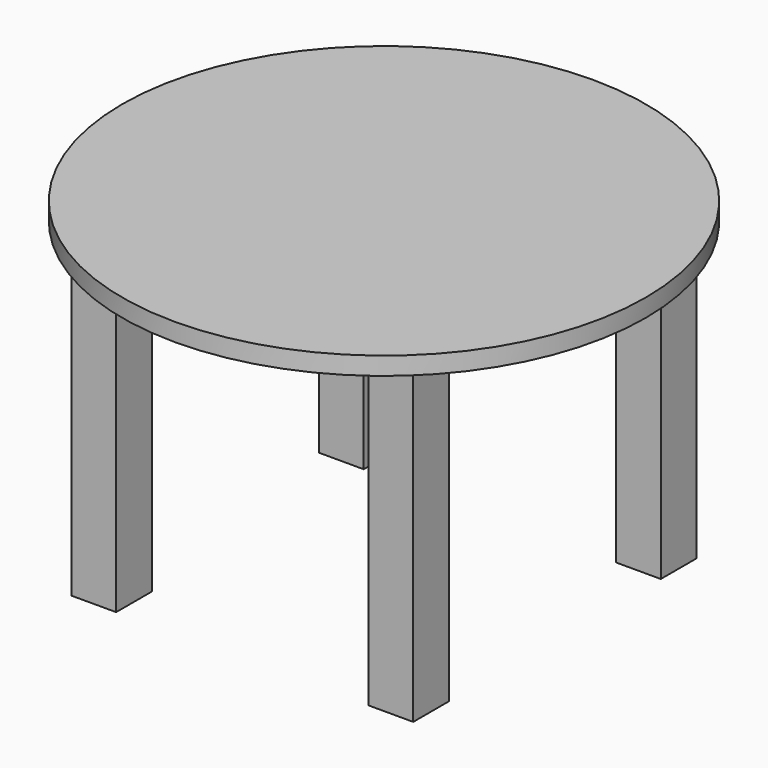
from build123d import *

# Parameters (mm, degrees)
F0_R     = 585
F1_DEPTH = 40
F2_W     = 100
F2_H     = 100
F3_DEPTH = 700


with BuildPart() as f1:
    # F0 (on Top) → F1 (new body)
    with BuildSketch(Plane.XY):
        Circle(F0_R)
    extrude(amount=-F1_DEPTH)

    # F2 (on face) → F3 (join)
    with BuildSketch(Plane(origin=(0, 0, -40), x_dir=(1, 0, 0), z_dir=(0, 0, -1))):
        with Locations((331.928881, 345.765498)):
            Rectangle(F2_W, F2_H)
        with Locations((-331.928881, 345.765498)):
            Rectangle(F2_W, F2_H)
        with Locations((331.928881, -345.765498)):
            Rectangle(F2_W, F2_H)
        with Locations((-331.928881, -345.765498)):
            Rectangle(F2_W, F2_H)
    extrude(amount=F3_DEPTH)


solid = f1.part
